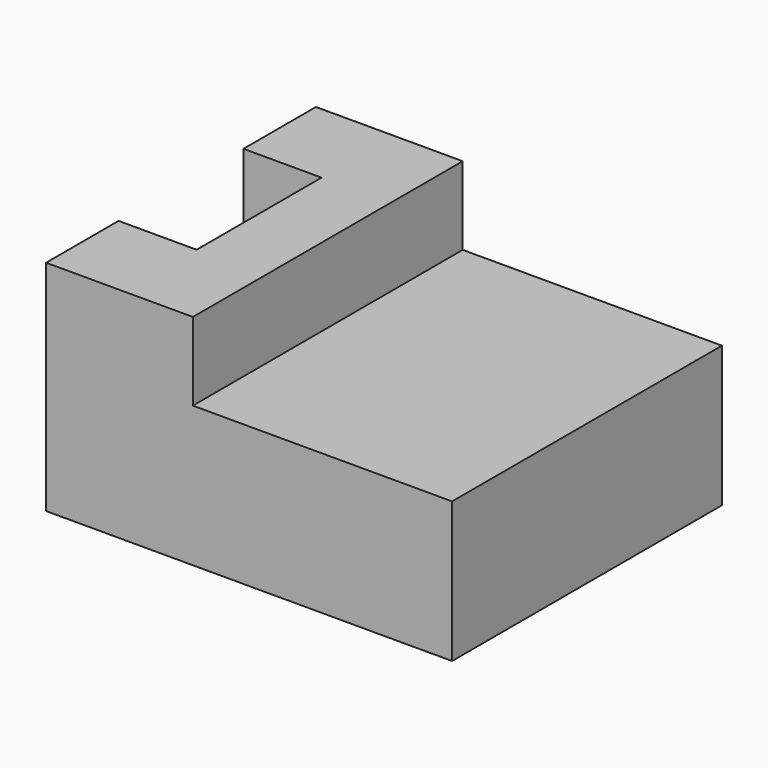
from build123d import *

# Parameters (mm, degrees)
F0_W     = 130
F0_H     = 108
F1_DEPTH = 45
F2_W     = 108
F2_H     = 25
F3_DEPTH = 47
F4_W     = 25
F4_H     = 50
F5_DEPTH = 70.001


with BuildPart() as f1:
    # F0 (on Top) → F1 (new body)
    with BuildSketch(Plane.XY):
        Rectangle(F0_W, F0_H)
    extrude(amount=F1_DEPTH)

    # F2 (on face) → F3 (join)
    with BuildSketch(Plane(origin=(-65, 0, 0), x_dir=(0, -1, 0), z_dir=(-1, 0, 0))):
        with Locations((0, 57.5)):
            Rectangle(F2_W, F2_H)
    extrude(amount=-F3_DEPTH)

    # F4 (on face) → F5 (cut, through all)
    with BuildSketch(Plane.XY.offset(70)):
        with Locations((-52.5, 0)):
            Rectangle(F4_W, F4_H)
    extrude(amount=-F5_DEPTH, mode=Mode.SUBTRACT)


solid = f1.part
